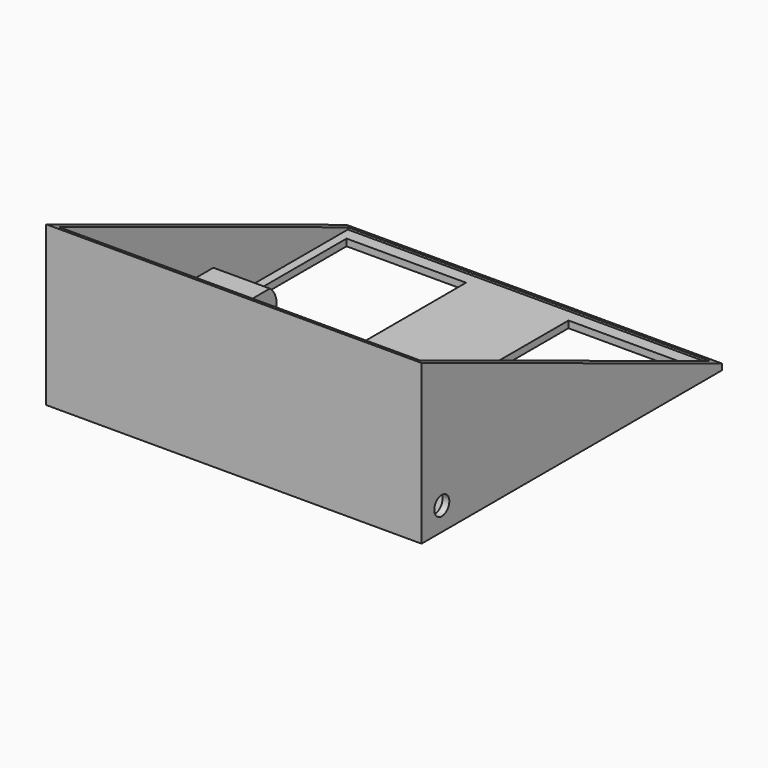
from build123d import *

# Parameters (mm, degrees)
F0_W      = 139.7
F0_H      = 139.7
F2_DEPTH  = 69.85
F3_W      = 44.45
F3_H      = 50.8
F4_DEPTH  = 101.6
F3_H_2    = 50.8314919436
F6_DEPTH  = 101.6
F8_T      = -2.54
F10_D     = 7.0104
F10_DEPTH = 62.5339166651
F11_D     = 7.0104
F13_DEPTH = 21.0058
F15_DEPTH = 21.0058


with BuildPart() as f2:
    # F0 (on Front) → F2 (new body, symmetric)
    with BuildSketch(Plane.XZ):
        with Locations((7.3170833349, 137.3853212178)):
            Rectangle(F0_W, F0_H)
    extrude(amount=F2_DEPTH, both=True)


with BuildPart() as f4:
    # F3 (on Top) → F4 (new body, symmetric)
    with BuildSketch(Plane.XY):
        with Locations((-34.519743681, 37.2602967441)):
            Rectangle(F3_W, F3_H)
    extrude(amount=F4_DEPTH, both=True)


with BuildPart() as f4b:
    # F3 (on Top) → F4, piece 2 (new body, symmetric)
    with BuildSketch(Plane.XY):
        with Locations((48.030256319, 37.2760427159)):
            Rectangle(F3_W, F3_H_2)
    extrude(amount=F4_DEPTH, both=True)


with BuildPart() as f6:
    # F5 (on Right) → F6 (new body, symmetric)
    with BuildSketch(Plane.YZ):
        Polygon((76.787297499, 66.9550536128), (134.3187632341, 208.0787243784), (-53.84613112, 284.7873453586), (-111.3775968552, 143.663674593), align=None)
    extrude(amount=F6_DEPTH, both=True)


with BuildPart() as f2_1:
    add(f2.part)

    # F7: cut F6
    add(f6.part, mode=Mode.SUBTRACT)

    # F8
    f8_openings = [f2_1.faces().sort_by_distance(p)[0] for p in [
        (7.317083, 0, 98.258702),
    ]]
    offset(amount=F8_T, openings=f8_openings)

    # F9: cut F4b, F4
    add(f4b.part, mode=Mode.SUBTRACT)
    add(f4.part, mode=Mode.SUBTRACT)

    # F10 (through all, one way)
    with BuildSketch(Plane.YZ):
        with Locations((-60.4358874261, 76.2015281631)):
            Circle(F10_D / 2)
    extrude(amount=-F10_DEPTH, mode=Mode.SUBTRACT)

    # F11 (through all)
    with Locations(Plane(origin=(0, 0, 0), x_dir=(0, 1, 0), z_dir=(-1, 0, 0))):
        with Locations((-60.4358874261, -76.2015281631)):
            Hole(F11_D / 2)

    # F12 (on face) → F13 (join)
    with BuildSketch(Plane(origin=(74.6270833349, 0, 0), x_dir=(0, -1, 0), z_dir=(-1, 0, 0))):
        with BuildLine():
            Line((4.7972360938, 82.5531459689), (-5.0022536889, 82.5531459689))
            ThreePointArc((-5.0022536889, 82.5531459689), (-8.2025087976, 76.1031459689), (-5.0022536889, 69.6531459689))
            Line((-5.0022536889, 69.6531459689), (4.8260011356, 69.6750988441))
            ThreePointArc((4.8260011356, 69.6750988441), (7.9974709963, 76.1212384837), (4.7972360938, 82.5531459689))
        make_face()
    extrude(amount=F13_DEPTH)

    # F14 (on face) → F15 (join)
    with BuildSketch(Plane.YZ.offset(-59.9929166651)):
        with BuildLine():
            Line((4.7729444071, 82.9956434011), (-5.0265453756, 82.9956434011))
            ThreePointArc((-5.0265453756, 82.9956434011), (-8.2268004843, 76.5456434011), (-5.0265453756, 70.0956434011))
            Line((-5.0265453756, 70.0956434011), (4.8017094489, 70.1175962763))
            ThreePointArc((4.8017094489, 70.1175962763), (7.9731793096, 76.5637359159), (4.7729444071, 82.9956434011))
        make_face()
    extrude(amount=F15_DEPTH)


solid = f2_1.part
